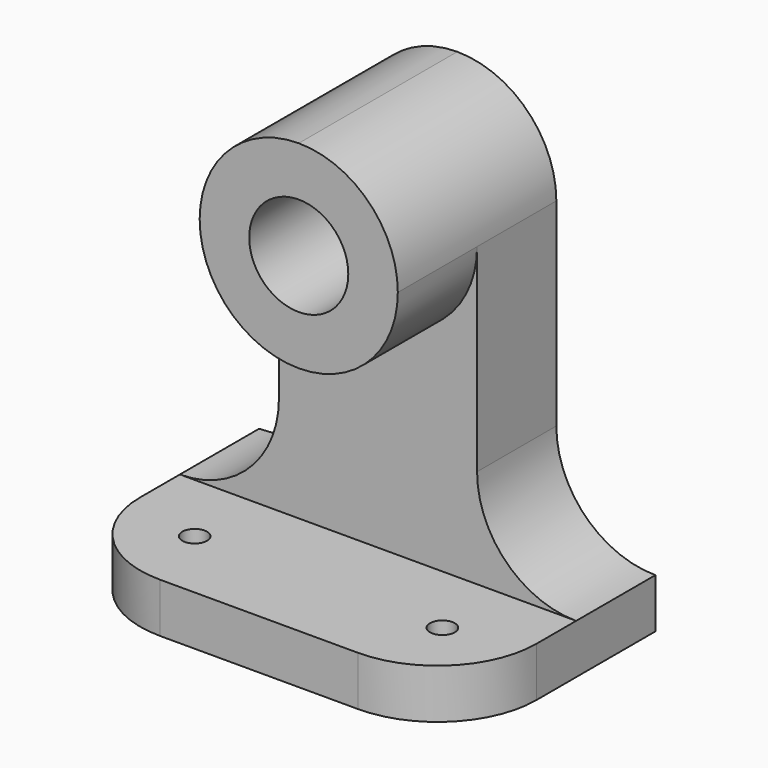
from build123d import *

# Parameters (mm, degrees)
F1_DEPTH  = 31.75
F2_R      = 6.35
F3_DEPTH  = 31.75
F5_DEPTH  = 31.75
F7_DEPTH  = 19.05
F8_DEPTH  = 6.35
F9_W      = 12.7
F9_H      = 12.7
F10_DEPTH = 31.75
F11_W     = 12.7
F11_H     = 12.7
F12_DEPTH = 19.05
F14_DEPTH = 12.7
F15_W     = 12.7
F15_H     = 12.7
F16_DEPTH = 12.7
F18_DEPTH = 12.7
F19_R     = 1.5875
F20_DEPTH = 12.7
F22_DEPTH = 6.35


with BuildPart() as f1:
    # F0 (on Front) → F1 (new body)
    with BuildSketch(Plane.XZ):
        Polygon((-9.6981803781, 6.35), (-22.3981803781, 6.35), (-22.3981803781, 0), (28.4018196219, 0), (28.4018196219, 6.35), (15.7018196219, 6.35), (15.7018196219, 57.15), (-9.6981803781, 57.15), align=None)
    extrude(amount=F1_DEPTH)

    # F2 (on face) → F3 (cut)
    with BuildSketch(Plane.XZ.offset(31.75)):
        with Locations((3.0018196219, 44.45)):
            Circle(F2_R)
    extrude(amount=-F3_DEPTH, mode=Mode.SUBTRACT)

    # F4 (on face) → F5 (cut)
    with BuildSketch(Plane.XZ.offset(31.75)):
        with BuildLine():
            ThreePointArc((-9.6981803781, 44.45), (-5.9784365163, 53.4302561039), (3.0018195733, 57.15))
            Line((3.0018195733, 57.15), (-9.6981803781, 57.15))
            Line((-9.6981803781, 57.15), (-9.6981803781, 44.45))
        make_face()
        with BuildLine():
            ThreePointArc((3.0018195733, 57.15), (11.9820757258, 53.4302561383), (15.7018196219, 44.45))
            Line((15.7018196219, 44.45), (15.7018196219, 57.15))
            Line((15.7018196219, 57.15), (3.0018195733, 57.15))
        make_face()
    extrude(amount=-F5_DEPTH, mode=Mode.SUBTRACT)

    # F6 (on face) → F7 (cut)
    with BuildSketch(Plane.XZ.offset(31.75)):
        with BuildLine():
            Line((15.7018196219, 6.35), (15.7018196219, 44.45))
            ThreePointArc((15.7018196219, 44.45), (3.0018196219, 31.75), (-9.6981803781, 44.45))
            Line((-9.6981803781, 44.45), (-9.6981803781, 6.35))
            Line((-9.6981803781, 6.35), (15.7018196219, 6.35))
        make_face()
    extrude(amount=-F7_DEPTH, mode=Mode.SUBTRACT)

    # F8 (cut): a face of the model
    f8_faces = [f1.faces().sort_by_distance(p)[0] for p in [
        (15.3426093771, -31.75, 44.45),
    ]]
    extrude(f8_faces, amount=-F8_DEPTH, mode=Mode.SUBTRACT)

    # F9 (on face) → F10 (join)
    with BuildSketch(Plane.XZ.offset(31.75)):
        with Locations((-16.0481803781, 12.7)):
            Rectangle(F9_W, F9_H)
    extrude(amount=-F10_DEPTH)

    # F11 (on face) → F12 (cut)
    with BuildSketch(Plane.XZ.offset(31.75)):
        with Locations((-16.0481803781, 12.7)):
            Rectangle(F11_W, F11_H)
    extrude(amount=-F12_DEPTH, mode=Mode.SUBTRACT)

    # F13 (on face) → F14 (cut)
    with BuildSketch(Plane.XZ.offset(12.7)):
        with BuildLine():
            Line((-22.3981803781, 19.05), (-22.3981803781, 6.35))
            ThreePointArc((-22.3981803781, 6.35), (-13.417924257, 10.0697438789), (-9.6981803781, 19.05))
            Line((-9.6981803781, 19.05), (-22.3981803781, 19.05))
        make_face()
    extrude(amount=-F14_DEPTH, mode=Mode.SUBTRACT)

    # F15 (on face) → F16 (join)
    with BuildSketch(Plane.XZ.offset(12.7)):
        with Locations((22.0518196219, 12.7)):
            Rectangle(F15_W, F15_H)
    extrude(amount=-F16_DEPTH)

    # F17 (on face) → F18 (cut)
    with BuildSketch(Plane.XZ.offset(12.7)):
        with BuildLine():
            Line((28.4018196219, 19.05), (15.7018196219, 19.05))
            ThreePointArc((15.7018196219, 19.05), (19.4215635009, 10.0697438789), (28.4018196219, 6.35))
            Line((28.4018196219, 6.35), (28.4018196219, 19.05))
        make_face()
    extrude(amount=-F18_DEPTH, mode=Mode.SUBTRACT)

    # F19 (on face) → F20 (cut)
    with BuildSketch(Plane.XY.offset(6.35)):
        with Locations((-12.8731803781, -22.225)):
            Circle(F19_R)
        with Locations((18.8768196219, -22.225)):
            Circle(F19_R)
    extrude(amount=-F20_DEPTH, mode=Mode.SUBTRACT)

    # F21 (on face) → F22 (cut)
    with BuildSketch(Plane.XY.offset(6.35)):
        with BuildLine():
            ThreePointArc((-9.6981803781, -31.75), (-18.6784364991, -28.0302561211), (-22.3981803781, -19.05))
            Line((-22.3981803781, -19.05), (-22.3981803781, -31.75))
            Line((-22.3981803781, -31.75), (-9.6981803781, -31.75))
        make_face()
        with BuildLine():
            ThreePointArc((28.4018196219, -19.05), (24.682075743, -28.0302561211), (15.7018196219, -31.75))
            Line((15.7018196219, -31.75), (28.4018196219, -31.75))
            Line((28.4018196219, -31.75), (28.4018196219, -19.05))
        make_face()
    extrude(amount=-F22_DEPTH, mode=Mode.SUBTRACT)


solid = f1.part
